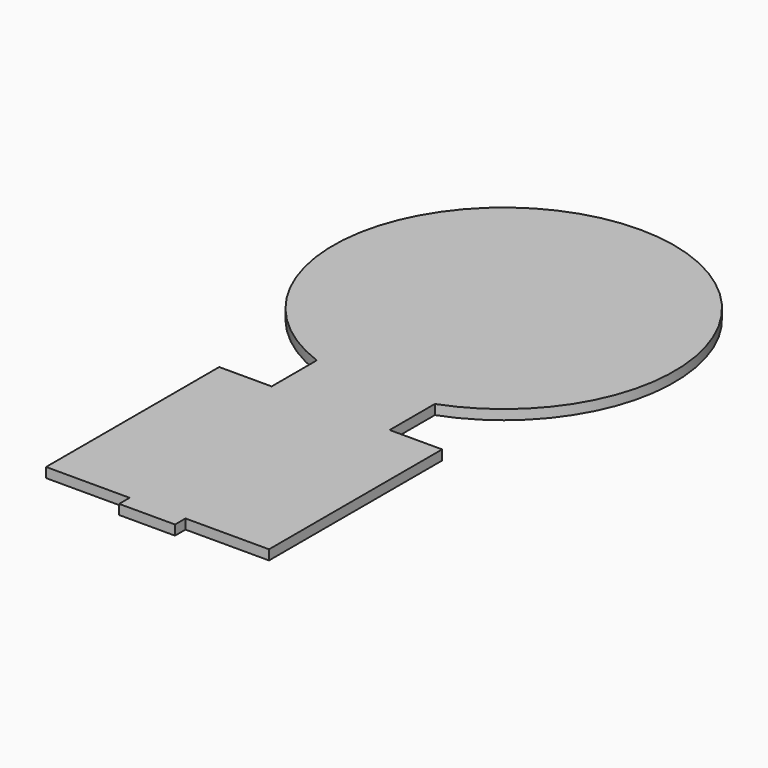
from build123d import *

# Parameters (mm, degrees)
PAD_DEPTH = 1.5


with BuildPart() as part:
    # Sketch → Pad (new body)
    with BuildSketch(Plane(origin=(0, 0, 0), x_dir=(1, 0, 0), z_dir=(0, 0, -1))):
        with BuildLine():
            Line((9, 30), (9, 21.392622))
            ThreePointArc((-9, 21.392622), (0, -29), (9, 21.392622))
            Line((-9, 21.392622), (-9, 30))
            Line((-17, 30), (-9, 30))
            Line((-17, 63), (-17, 30))
            Line((-4.261222, 63), (-17, 63))
            Line((-4.261222, 63), (-4.261222, 65))
            Line((-4.261222, 65), (4.261222, 65))
            Line((4.261222, 65), (4.261222, 63))
            Line((17, 63), (4.261222, 63))
            Line((17, 30), (17, 63))
            Line((9, 30), (17, 30))
        make_face()
    extrude(amount=PAD_DEPTH)


solid = part.part
